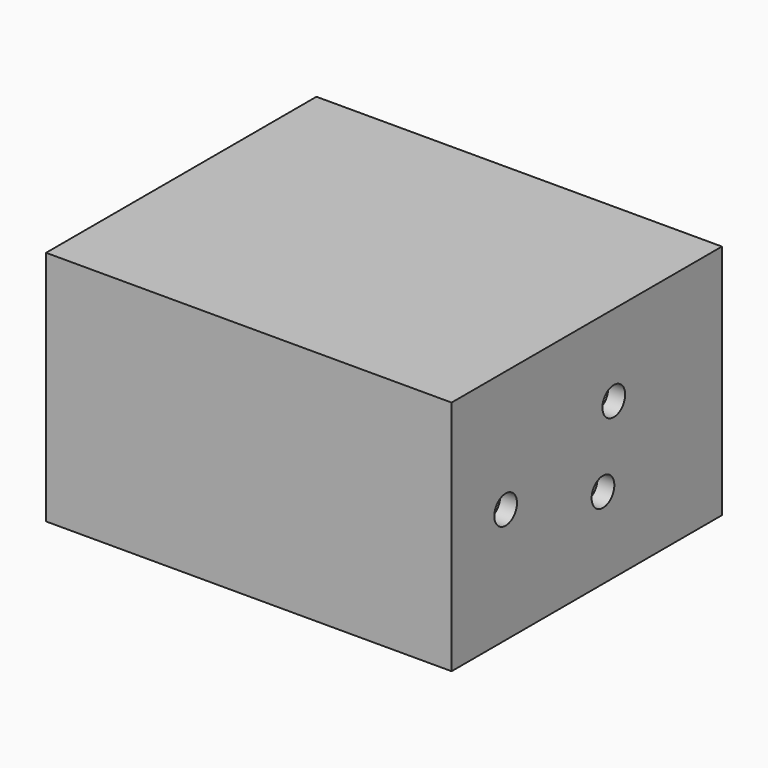
from build123d import *

# Parameters (mm, degrees)
F0_W     = 60
F0_H     = 35
F1_DEPTH = 50
F2_T     = -2.5
F4_D     = 4.2
F4_DEPTH = 14.4
F4_TIP   = 1.2618073


with BuildPart() as f1:
    # F0 (on Front) → F1 (new body)
    with BuildSketch(Plane.XZ):
        Rectangle(F0_W, F0_H)
    extrude(amount=F1_DEPTH)

    # F2
    f2_openings = [f1.faces().sort_by_distance(p)[0] for p in [
        (0, 0, 0),
    ]]
    offset(amount=F2_T, openings=f2_openings)

    # F4
    with Locations(Plane.YZ.offset(30)):
        with Locations((-40, -0.5), (-20, 5.5), (-22, -5.5)):
            Hole(F4_D / 2, depth=F4_DEPTH)
            with Locations((0, 0, -(F4_DEPTH + F4_TIP / 2))):  # 118° drill point
                Cone(0, F4_D / 2, F4_TIP, mode=Mode.SUBTRACT)


solid = f1.part
